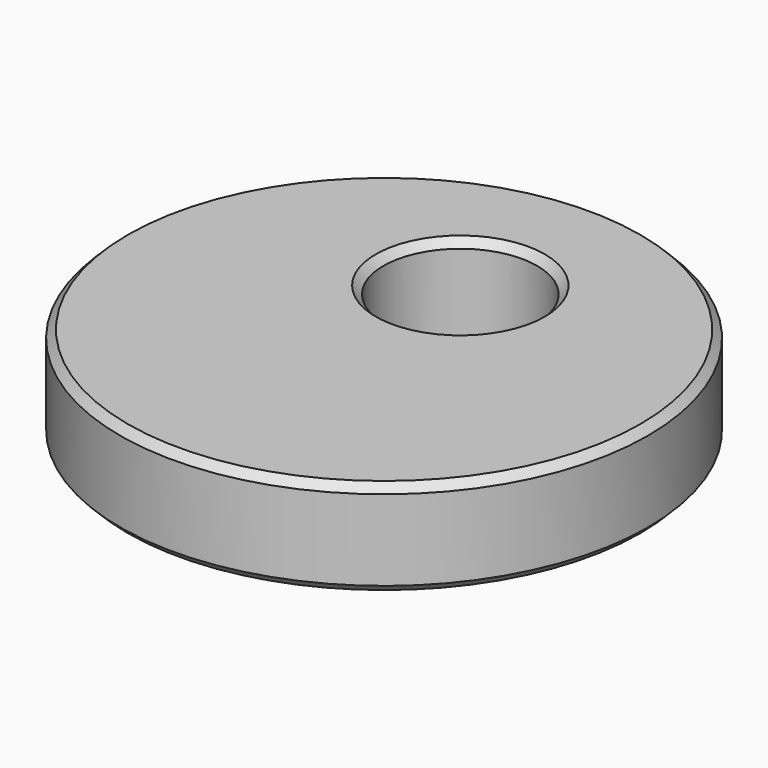
from build123d import *

# Parameters (mm, degrees)
F0_R     = 8.7249
F0_R_2   = 2.54
F1_DEPTH = 3.175
F2_SIZE  = 0.254


with BuildPart() as f1:
    # F0 (on Top) → F1 (new body)
    with BuildSketch(Plane.XY):
        Circle(F0_R)
        with Locations((0, 3.1496)):
            Circle(F0_R_2, mode=Mode.SUBTRACT)
    extrude(amount=F1_DEPTH)

    # F2
    f2_edges = [f1.edges().sort_by_distance(p)[0] for p in [
        (-8.7249, 0, 3.175),
        (-8.7249, 0, 0),
        (-2.54, 3.1496, 3.175),
        (-2.54, 3.1496, 0),
    ]]
    chamfer(f2_edges, length=F2_SIZE)


solid = f1.part
